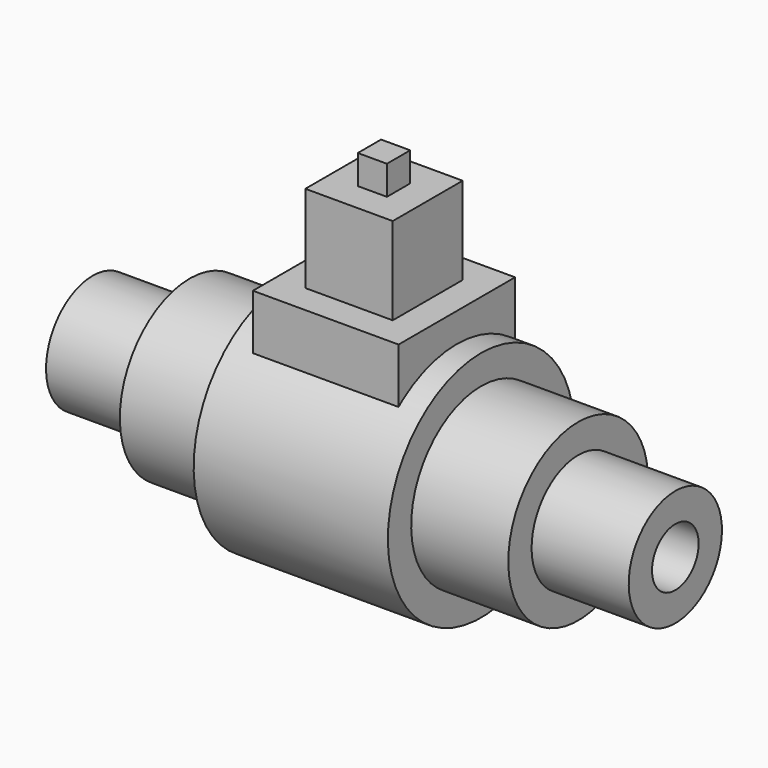
from build123d import *

# Parameters (mm, degrees)
F0_W     = 50
F0_H     = 50
F1_DEPTH = 50
F2_W     = 50
F2_H     = 50
F3_DEPTH = 50
F4_W     = 30
F4_H     = 30
F5_DEPTH = 30
F6_W     = 10
F6_H     = 10
F7_DEPTH = 10


with BuildPart() as f1:
    # F0 (on Top) → F1 (new body)
    with BuildSketch(Plane.XY):
        Rectangle(F0_W, F0_H)
    extrude(amount=F1_DEPTH)


with BuildPart() as f3:
    # F2 (on Top) → F3 (new body)
    with BuildSketch(Plane.XY):
        Rectangle(F2_W, F2_H)
    extrude(amount=F3_DEPTH)

    # F4 (on face) → F5 (join)
    with BuildSketch(Plane.XY.offset(50)):
        Rectangle(F4_W, F4_H)
    extrude(amount=F5_DEPTH)

    # F6 (on face) → F7 (join)
    with BuildSketch(Plane.XY.offset(80)):
        Rectangle(F6_W, F6_H)
    extrude(amount=F7_DEPTH)


with BuildPart() as f9:
    # F8 (on Front) → F9 (revolve)
    with BuildSketch(Plane.XZ):
        Polygon((0, 12.5), (0, 0), (50, 0), (50, 25), align=None)
    revolve(axis=Axis((24.2145564407, 0, 0), (1, 0, 0)))


with BuildPart() as f11:
    # F10 (on Front) → F11 (revolve)
    with BuildSketch(Plane.XZ):
        Polygon((-100, 20), (-100, 10), (0, 10), (100, 10), (100, 20), (66.6666666667, 20), (66.6666666667, 30), (33.3333333333, 30), (33.3333333333, 40), (0, 40), (-33.3333333333, 40), (-33.3333333333, 30), (-66.6666666667, 30), (-66.6666666667, 20), align=None)
    revolve(axis=Axis((0.9744563218, 0, 0), (1, 0, 0)))


solid = Compound([f1.part, f3.part, f9.part, f11.part])
